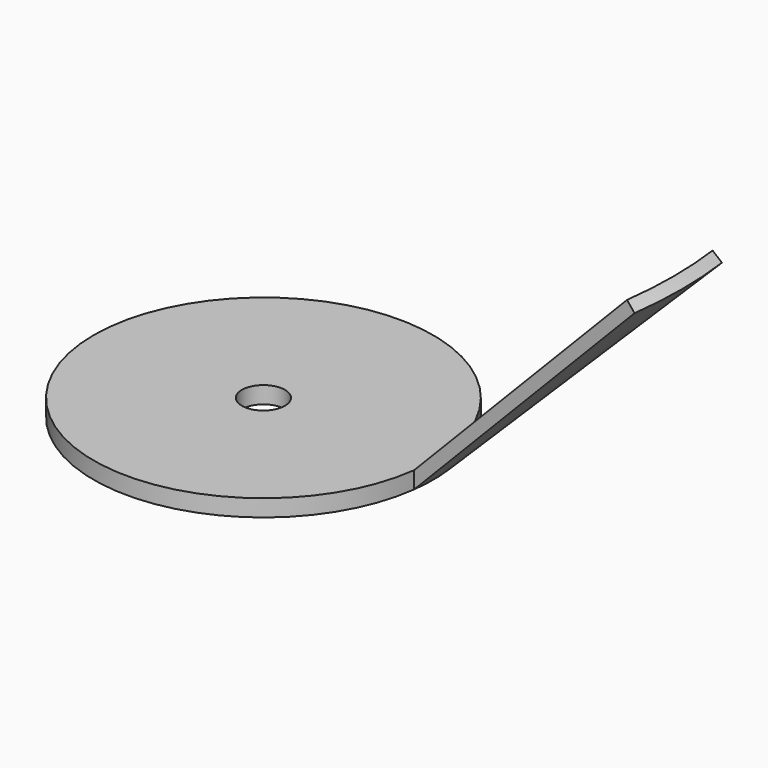
from build123d import *

# Parameters (mm, degrees)
F0_R     = 50
F0_R_2   = 6.35
F1_DEPTH = 5
F3_ANGLE = 15


with BuildPart() as f1:
    # F0 (on Top) → F1 (new body)
    with BuildSketch(Plane.XY):
        Circle(F0_R)
        Circle(F0_R_2, mode=Mode.SUBTRACT)
    extrude(amount=F1_DEPTH)

    # F2 (on Front) → F3 (revolve, symmetric)
    with BuildSketch(Plane.XZ) as f3_sk:
        Polygon((120.710678, 75.710678), (50, 5), (50, 0), (123.210678, 73.210678), align=None)
    revolve(axis=Axis((0, 0, 11.425557), (0, 0, 1)), revolution_arc=F3_ANGLE / 2)
    revolve(f3_sk.sketch, axis=Axis((0, 0, 11.425557), (0, 0, -1)), revolution_arc=F3_ANGLE / 2)


solid = f1.part
